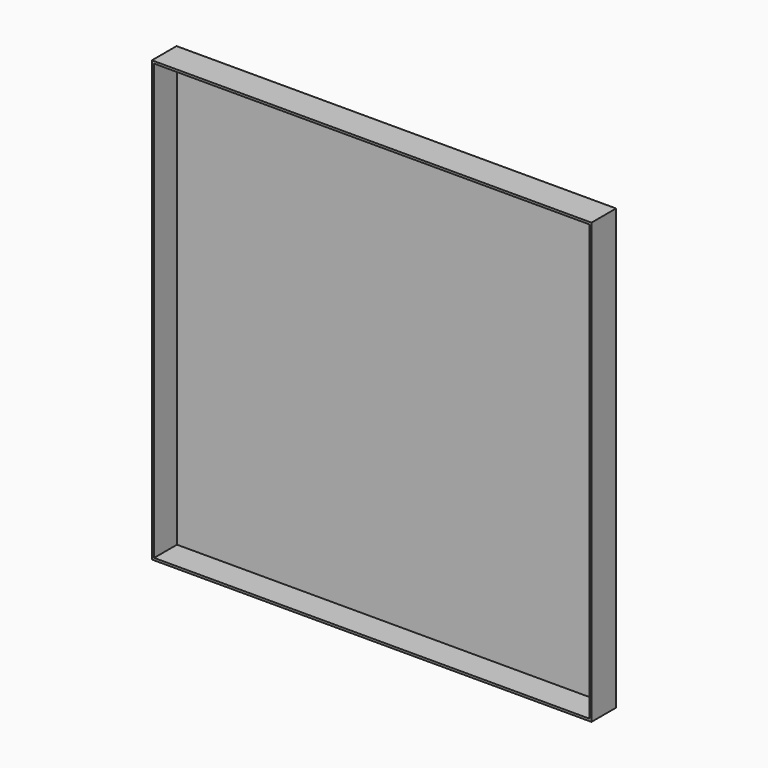
from build123d import *

# Parameters (mm, degrees)
F0_W     = 400
F0_H     = 400
F1_DEPTH = 28
F2_W     = 396
F2_H     = 396
F3_DEPTH = 26
F4_R     = 15
F5_DEPTH = 2


with BuildPart() as f1:
    # F0 (on Front) → F1 (new body)
    with BuildSketch(Plane.XZ):
        with Locations((-154.291336, 166.60433)):
            Rectangle(F0_W, F0_H)
    extrude(amount=F1_DEPTH)

    # F2 (on face) → F3 (cut)
    with BuildSketch(Plane.XZ.offset(28)):
        with Locations((-154.291336, 166.60433)):
            Rectangle(F2_W, F2_H)
    extrude(amount=-F3_DEPTH, mode=Mode.SUBTRACT)

    # F4 (on face) → F5 (join)
    with BuildSketch(Plane(origin=(0, 0, 0), x_dir=(-1, 0, 0), z_dir=(0, 1, 0))):
        with Locations((294.033349, 166.60433)):
            Circle(F4_R)
    extrude(amount=F5_DEPTH)


solid = f1.part
